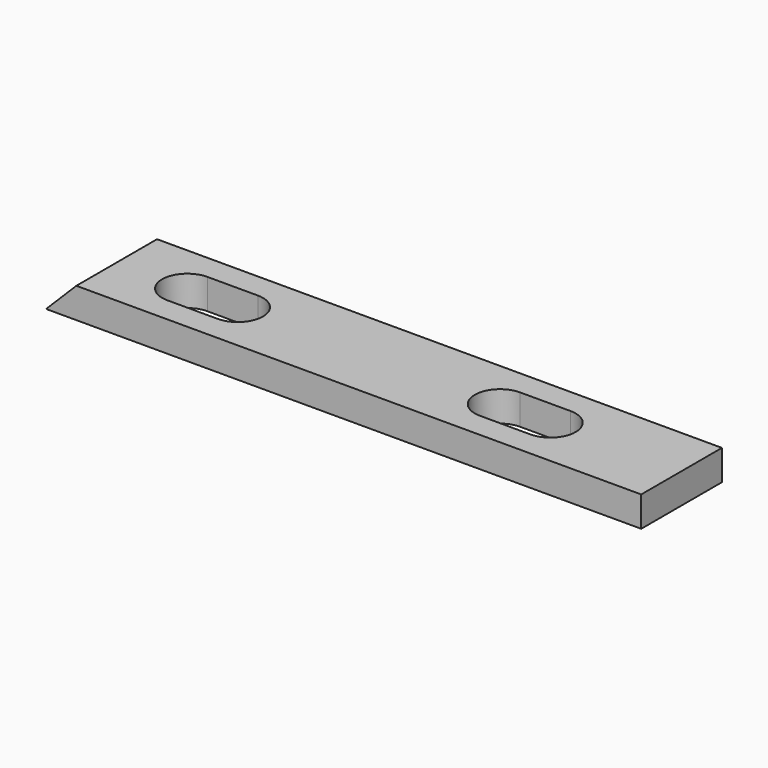
from build123d import *

# Parameters (mm, degrees)
SKETCH_W        = 59
SKETCH_H        = 10
PAD_DEPTH       = 3
POCKET_DEPTH    = 10.001
POCKET001_DEPTH = 3.001


with BuildPart() as part:
    # Sketch → Pad (new body)
    with BuildSketch(Plane.XY):
        with Locations((29.5, 5)):
            Rectangle(SKETCH_W, SKETCH_H)
    extrude(amount=PAD_DEPTH)

    # Sketch001 (on Face3 of Pad) → Pocket (cut, through all)
    with BuildSketch(Plane.XZ):
        Polygon((0, 0), (3, 3), (0, 3), align=None)
    extrude(amount=-POCKET_DEPTH, mode=Mode.SUBTRACT)

    # Sketch002 (on Face4 of Pocket) → Pocket001 (cut, through all)
    with BuildSketch(Plane.XY.offset(3)):
        with BuildLine():
            ThreePointArc((10, 7.5), (7.5, 5), (10, 2.5))
            Line((10, 2.5), (15, 2.5))
            ThreePointArc((15, 2.5), (17.5, 5), (15, 7.5))
            Line((10, 7.5), (15, 7.5))
        make_face()
        with BuildLine():
            ThreePointArc((46, 2.5), (48.5, 5), (46, 7.5))
            Line((46, 7.5), (41, 7.5))
            ThreePointArc((41, 7.5), (38.5, 5), (41, 2.5))
            Line((46, 2.5), (41, 2.5))
        make_face()
    extrude(amount=-POCKET001_DEPTH, mode=Mode.SUBTRACT)


solid = part.part
